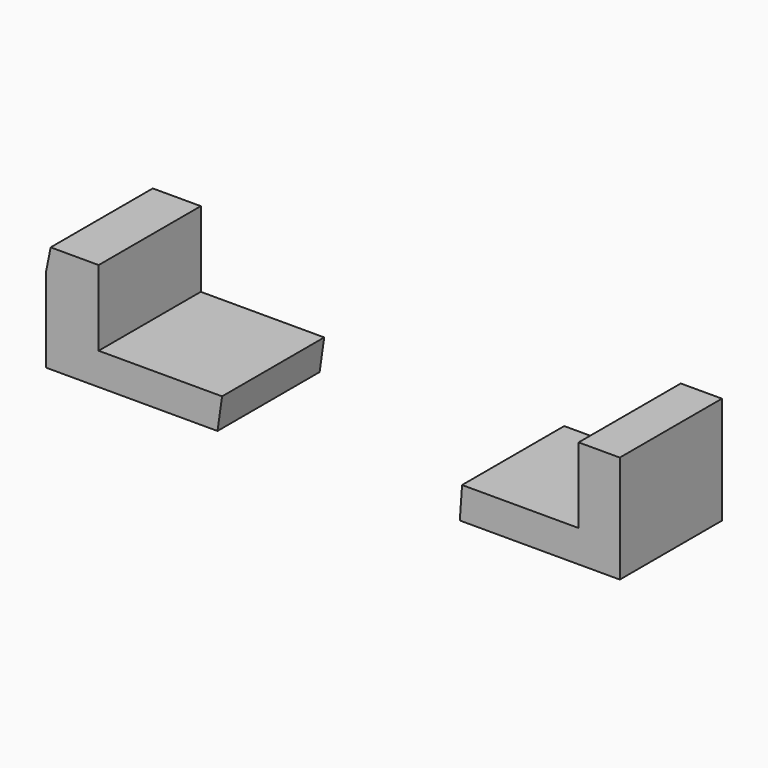
from build123d import *

# Parameters (mm, degrees)
F1_DEPTH = 25.4


with BuildPart() as f1:
    # F0 (on Front) → F1 (new body)
    with BuildSketch(Plane.XZ):
        Polygon((-123.938531, 60.945924), (-124.848172, 56.397721), (-124.848172, 39.569367), (-90.73665, 39.569367), (-89.827009, 45.936856), (-114.387304, 45.936856), (-114.387304, 60.945924), align=None)
        Polygon((-42.070869, 45.936856), (-42.52569, 39.569367), (-10.688271, 39.569367), (-10.688271, 60.945924), (-18.875035, 60.945924), (-18.875035, 45.936856), align=None)
    extrude(amount=F1_DEPTH)


solid = f1.part
